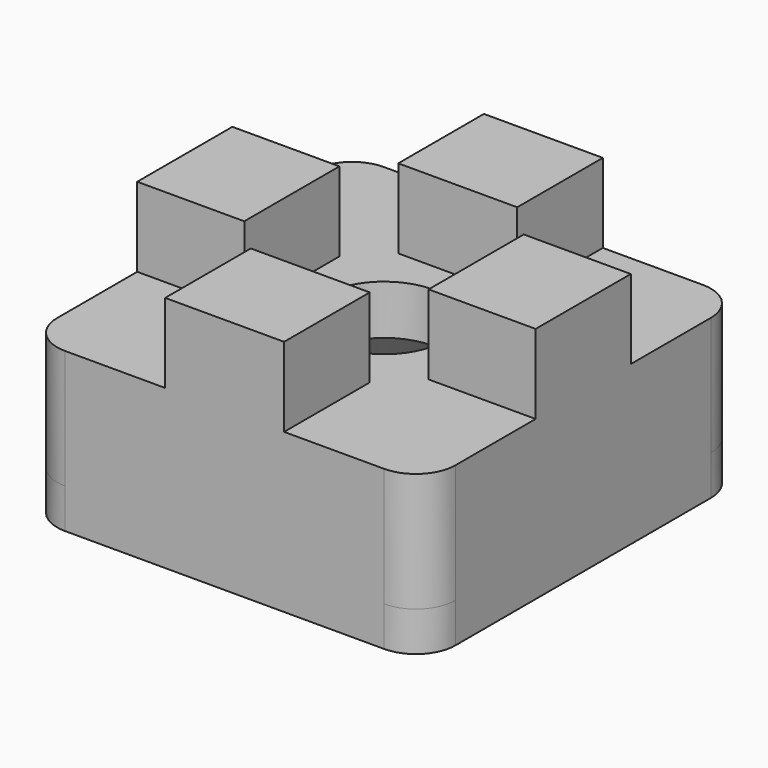
from build123d import *

# Parameters (mm, degrees)
F0_R      = 3.1
F0_W      = 5.4
F0_H      = 6
F0_W_2    = 6
F0_H_2    = 5.4
F1_DEPTH  = 6
F2_DEPTH  = 10
F3_R      = 2
F4_SIZE   = 3.5
F1_FACE_R = 6.6
F5_DEPTH  = 2


with BuildPart() as f1:
    # F0 (on Top) → F1 (new body)
    with BuildSketch(Plane.XY):
        Polygon((-7.995946, 7.05), (-7.995946, 0), (-0.945946, 0), (-0.945946, 5.4), (5.054054, 5.4), (5.054054, 0), (12.104054, 0), (12.104054, 7.05), (6.704054, 7.05), (6.704054, 13.05), (12.104054, 13.05), (12.104054, 20.1), (5.054054, 20.1), (5.054054, 14.7), (-0.945946, 14.7), (-0.945946, 20.1), (-7.995946, 20.1), (-7.995946, 13.05), (-2.595946, 13.05), (-2.595946, 7.05), align=None)
        with Locations((2.054054, 10.05)):
            Circle(F0_R, mode=Mode.SUBTRACT)
        Polygon((-7.995946, 7.05), (-7.995946, 0), (-0.945946, 0), (-0.945946, 5.4), (5.054054, 5.4), (5.054054, 0), (12.104054, 0), (12.104054, 7.05), (6.704054, 7.05), (6.704054, 13.05), (12.104054, 13.05), (12.104054, 20.1), (5.054054, 20.1), (5.054054, 14.7), (-0.945946, 14.7), (-0.945946, 20.1), (-7.995946, 20.1), (-7.995946, 13.05), (-2.595946, 13.05), (-2.595946, 7.05), align=None)
        with Locations((2.054054, 10.05)):
            Circle(F0_R, mode=Mode.SUBTRACT)
        Polygon((-7.995946, 7.05), (-7.995946, 0), (-0.945946, 0), (-0.945946, 5.4), (5.054054, 5.4), (5.054054, 0), (12.104054, 0), (12.104054, 7.05), (6.704054, 7.05), (6.704054, 13.05), (12.104054, 13.05), (12.104054, 20.1), (5.054054, 20.1), (5.054054, 14.7), (-0.945946, 14.7), (-0.945946, 20.1), (-7.995946, 20.1), (-7.995946, 13.05), (-2.595946, 13.05), (-2.595946, 7.05), align=None)
        with Locations((2.054054, 10.05)):
            Circle(F0_R, mode=Mode.SUBTRACT)
        with Locations((9.404054, 10.05)):
            Rectangle(F0_W, F0_H)
        with Locations((-5.295946, 10.05)):
            Rectangle(F0_W, F0_H)
        with Locations((2.054054, 17.4)):
            Rectangle(F0_W_2, F0_H_2)
        with Locations((2.054054, 2.7)):
            Rectangle(F0_W_2, F0_H_2)
        with Locations((2.054054, 17.4)):
            Rectangle(F0_W_2, F0_H_2)
        Polygon((-7.995946, 7.05), (-7.995946, 0), (-0.945946, 0), (-0.945946, 5.4), (5.054054, 5.4), (5.054054, 0), (12.104054, 0), (12.104054, 7.05), (6.704054, 7.05), (6.704054, 13.05), (12.104054, 13.05), (12.104054, 20.1), (5.054054, 20.1), (5.054054, 14.7), (-0.945946, 14.7), (-0.945946, 20.1), (-7.995946, 20.1), (-7.995946, 13.05), (-2.595946, 13.05), (-2.595946, 7.05), align=None)
        with Locations((2.054054, 10.05)):
            Circle(F0_R, mode=Mode.SUBTRACT)
        with Locations((-5.295946, 10.05)):
            Rectangle(F0_W, F0_H)
        with Locations((2.054054, 2.7)):
            Rectangle(F0_W_2, F0_H_2)
        with Locations((9.404054, 10.05)):
            Rectangle(F0_W, F0_H)
    extrude(amount=F1_DEPTH)

    # F0 (on Top) → F2 (join)
    with BuildSketch(Plane.XY):
        with Locations((2.054054, 17.4)):
            Rectangle(F0_W_2, F0_H_2)
        with Locations((-5.295946, 10.05)):
            Rectangle(F0_W, F0_H)
        with Locations((2.054054, 2.7)):
            Rectangle(F0_W_2, F0_H_2)
        with Locations((9.404054, 10.05)):
            Rectangle(F0_W, F0_H)
    extrude(amount=F2_DEPTH)

    # F3
    f3_edges = [f1.edges().sort_by_distance(p)[0] for p in [
        (-7.995946, 0, 3),
        (12.104054, 0, 3),
        (12.104054, 20.1, 3),
        (-7.995946, 20.1, 3),
    ]]
    fillet(f3_edges, radius=F3_R)

    # F4
    f4_edges = [f1.edges().sort_by_distance(p)[0] for p in [
        (-1.045946, 10.05, 0),
    ]]
    chamfer(f4_edges, length=F4_SIZE)

    # F1_face (on face) → F5 (join)
    with BuildSketch(Plane(origin=(2.054054, 10.05, 0), x_dir=(1, 0, 0), z_dir=(0, 0, -1))):
        with BuildLine():
            Line((-8.05, -10.05), (8.05, -10.05))
            ThreePointArc((8.05, -10.05), (9.464214, -9.464214), (10.05, -8.05))
            Line((10.05, -8.05), (10.05, 8.05))
            ThreePointArc((10.05, 8.05), (9.464214, 9.464214), (8.05, 10.05))
            Line((8.05, 10.05), (-8.05, 10.05))
            ThreePointArc((-8.05, 10.05), (-9.464214, 9.464214), (-10.05, 8.05))
            Line((-10.05, 8.05), (-10.05, -8.05))
            ThreePointArc((-10.05, -8.05), (-9.464214, -9.464214), (-8.05, -10.05))
        make_face()
        Circle(F1_FACE_R, mode=Mode.SUBTRACT)
    extrude(amount=F5_DEPTH)


solid = f1.part
